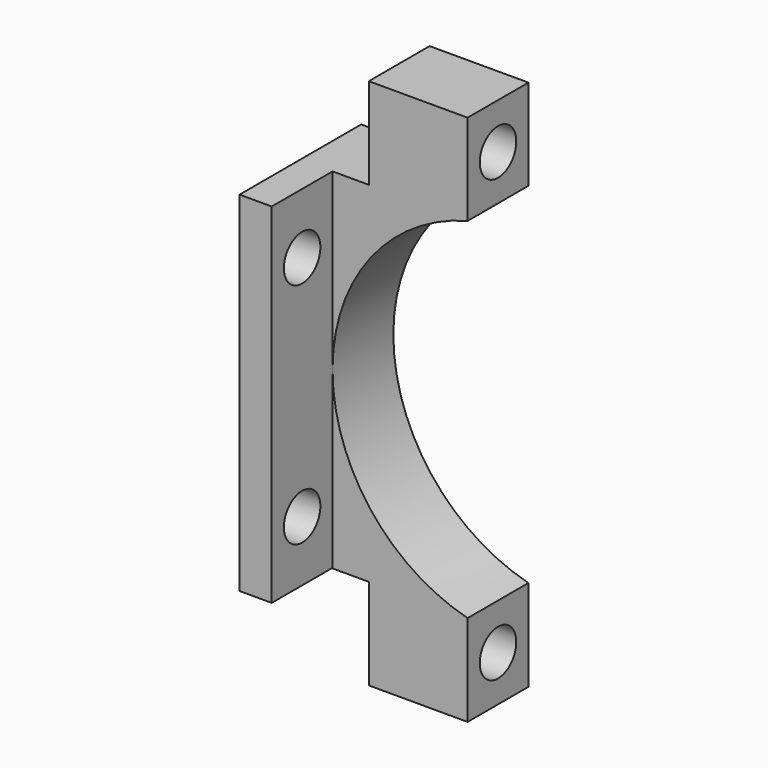
from build123d import *

# Parameters (mm, degrees)
F0_W     = 4.5
F0_H     = 6
F1_DEPTH = 5
F2_R     = 1.5
F3_DEPTH = 25
F4_W     = 2.115136
F4_H     = 22.957688
F5_DEPTH = 5
F6_R     = 1.5
F7_DEPTH = 25


with BuildPart() as f1:
    # F0 (on Front) → F1 (new body)
    with BuildSketch(Plane.XZ):
        with BuildLine():
            ThreePointArc((0, -11.5), (-8.884864, 0), (0, 11.5))
            Line((0, 11.5), (0, 17.478844))
            Line((0, 17.478844), (-2, 17.478844))
            Line((-2, 17.478844), (-2, 11.478844))
            Line((-2, 11.478844), (-6.5, 11.478844))
            Line((-6.5, 11.478844), (-11, 11.478844))
            Line((-11, 11.478844), (-11, -11.513906))
            Line((-11, -11.513906), (-6.5, -11.513906))
            Line((-6.5, -11.513906), (-2, -11.513906))
            Line((-2, -11.513906), (-2, -17.513906))
            Line((-2, -17.513906), (0, -17.513906))
            Line((0, -17.513906), (0, -11.5))
        make_face()
        with Locations((-4.25, 14.478844)):
            Rectangle(F0_W, F0_H)
        with Locations((-4.25, -14.513906)):
            Rectangle(F0_W, F0_H)
    extrude(amount=F1_DEPTH)

    # F2 (on face) → F3 (cut)
    with BuildSketch(Plane.YZ):
        with Locations((-2.5, 14.478844)):
            Circle(F2_R)
        with Locations((-2.5, -14.513906)):
            Circle(F2_R)
    extrude(amount=-F3_DEPTH, mode=Mode.SUBTRACT)

    # F4 (on face) → F5 (join)
    with BuildSketch(Plane.XZ.offset(5)):
        with Locations((-9.942432, 0)):
            Rectangle(F4_W, F4_H)
    extrude(amount=F5_DEPTH)

    # F6 (on face) → F7 (cut)
    with BuildSketch(Plane(origin=(-11, 0, 0), x_dir=(0, -1, 0), z_dir=(-1, 0, 0))):
        with Locations((7.5, 7.498844)):
            Circle(F6_R)
        with Locations((7.5, -7.501156)):
            Circle(F6_R)
    extrude(amount=-F7_DEPTH, mode=Mode.SUBTRACT)


solid = f1.part
